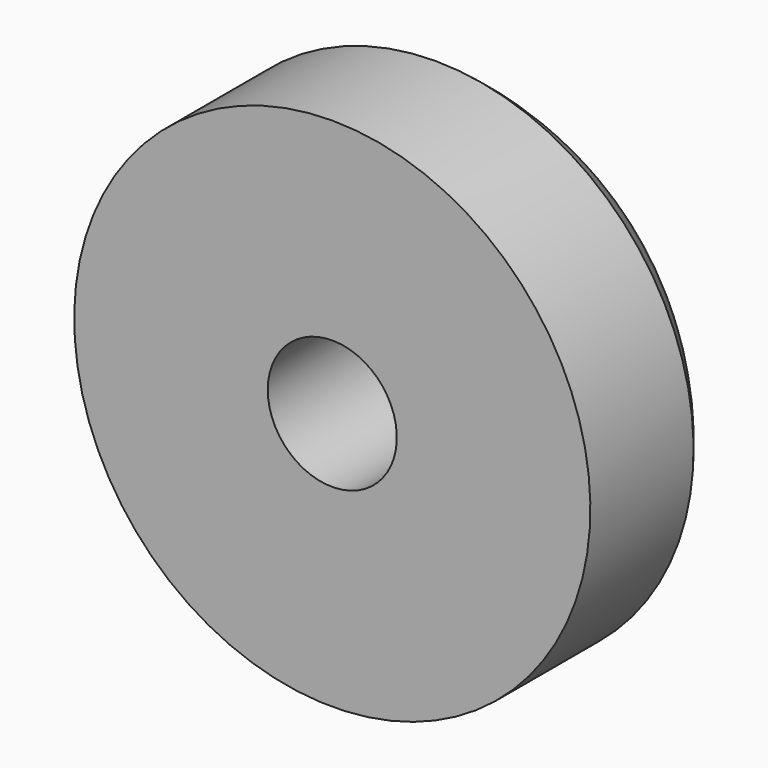
from build123d import *

# Parameters (mm, degrees)
F3_D     = 3.175
F3_DEPTH = 12.7


with BuildPart() as f1:
    # F0 (on Right) → F1 (revolve)
    with BuildSketch(Plane.YZ):
        with BuildLine():
            Line((0, 6.35), (0, 0))
            Line((0, 0), (6.35, 0))
            ThreePointArc((6.35, 0), (5.512016, 3.549758), (3.175, 6.35))
            Line((3.175, 6.35), (0, 6.35))
        make_face()
    revolve(axis=Axis((0, 3.175, 0), (0, 1, 0)))

    # F3
    with Locations(Plane.XZ):
        with Locations((0, 0)):
            Hole(F3_D / 2, depth=F3_DEPTH)


solid = f1.part
